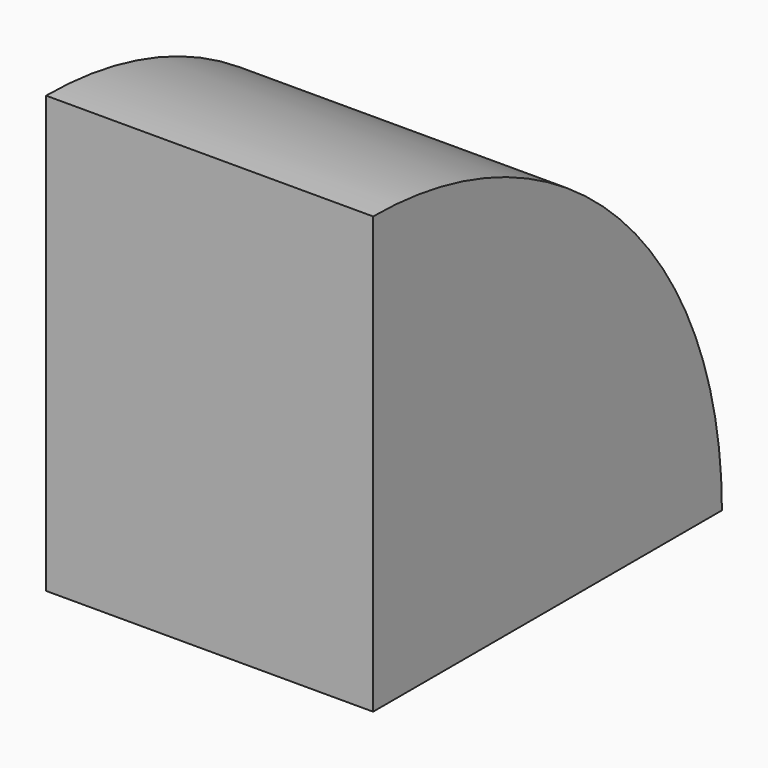
from build123d import *

# Parameters (mm, degrees)
PAD_DEPTH = 15


with BuildPart() as part:
    # Sketch → Pad (new body)
    with BuildSketch(Plane.YZ):
        with BuildLine():
            ThreePointArc((10, -5.797906), (4.142138, 8.344227), (-9.999993, 14.202094))
            Line((-9.999993, 14.202094), (-10, -5.797906))
            Line((-10, -5.797906), (10, -5.797906))
        make_face()
    extrude(amount=PAD_DEPTH)


solid = part.part
